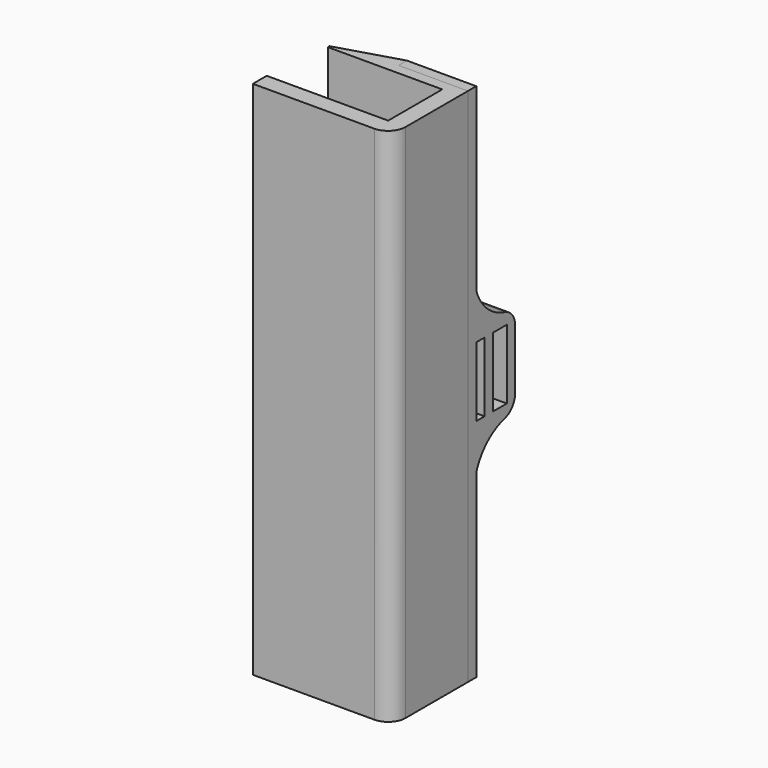
from build123d import *

# Parameters (mm, degrees)
F1_DEPTH = 150
F2_W     = 3
F2_H     = 20
F2_W_2   = 5
F3_DEPTH = 20
F4_R     = 1.75
F5_DEPTH = 6
F6_R     = 2.25
F7_DEPTH = 14
F8_R     = 5
F4_R_2   = 3
F9_DEPTH = 2
F10_R    = 5
F11_SIZE = 2


with BuildPart() as f1:
    # F0 (on Top) → F1 (new body)
    with BuildSketch(Plane.XY):
        Polygon((0, 0), (40, 0), (40, 27.5), (20, 27.5), (20, 30.5), (0, 24.5), (20, 24.5), (35, 24.5), (35, 5), (0, 5), align=None)
    extrude(amount=F1_DEPTH)


with BuildPart() as f3:
    # F2 (on face) → F3 (new body)
    with BuildSketch(Plane.YZ.offset(40)):
        Polygon((30.5, 150), (27.5, 150), (27.5, 0), (30.5, 0), (30.5, 52), (30.5, 62), (44.5, 62), (44.5, 88), (30.5, 88), (30.5, 98), align=None)
        with Locations((32, 75)):
            Rectangle(F2_W, F2_H, mode=Mode.SUBTRACT)
        with Locations((39, 75)):
            Rectangle(F2_W_2, F2_H, mode=Mode.SUBTRACT)
        with BuildLine():
            ThreePointArc((44.5, 88), (35.897675, 90.756745), (30.5, 98))
            Line((30.5, 98), (30.5, 88))
            Line((30.5, 88), (44.5, 88))
        make_face()
        with BuildLine():
            Line((30.5, 62), (30.5, 52))
            ThreePointArc((30.5, 52), (35.897675, 59.243255), (44.5, 62))
            Line((44.5, 62), (30.5, 62))
        make_face()
    extrude(amount=-F3_DEPTH)


with BuildPart() as f5_tool:
    # F4 (on face) → F5 (new body, through all)
    with BuildSketch(Plane.XZ.offset(-24.5)):
        with Locations((30, 140)):
            Circle(F4_R)
        with Locations((30, 105)):
            Circle(F4_R)
        with Locations((30, 45)):
            Circle(F4_R)
        with Locations((30, 10)):
            Circle(F4_R)
    extrude(amount=-F5_DEPTH)


with BuildPart() as f1_1:
    add(f1.part)

    # F5: cut by f5_tool
    add(f5_tool.part, mode=Mode.SUBTRACT)

    # F4 (on face) → F9 (cut)
    with BuildSketch(Plane.XZ.offset(-24.5)):
        with Locations((30, 140)):
            Circle(F4_R_2)
        with Locations((30, 140)):
            Circle(F4_R, mode=Mode.SUBTRACT)
        with Locations((30, 105)):
            Circle(F4_R_2)
        with Locations((30, 105)):
            Circle(F4_R, mode=Mode.SUBTRACT)
        with Locations((30, 45)):
            Circle(F4_R_2)
        with Locations((30, 45)):
            Circle(F4_R, mode=Mode.SUBTRACT)
        with Locations((30, 10)):
            Circle(F4_R_2)
        with Locations((30, 10)):
            Circle(F4_R, mode=Mode.SUBTRACT)
    extrude(amount=-F9_DEPTH, mode=Mode.SUBTRACT)

    # F10
    f10_edges = [f1_1.edges().sort_by_distance(p)[0] for p in [
        (40, 0, 75),
    ]]
    fillet(f10_edges, radius=F10_R)

    # F11
    f11_edges = [f1_1.edges().sort_by_distance(p)[0] for p in [
        (0, 24.5, 75),
    ]]
    chamfer(f11_edges, length=F11_SIZE)


with BuildPart() as f3_1:
    add(f3.part)

    # F5: cut by f5_tool
    add(f5_tool.part, mode=Mode.SUBTRACT)

    # F6 (on face) → F7 (cut, through all)
    with BuildSketch(Plane(origin=(0, 44.5, 0), x_dir=(-1, 0, 0), z_dir=(0, 1, 0))):
        with Locations((-30, 75)):
            Circle(F6_R)
    extrude(amount=-F7_DEPTH, mode=Mode.SUBTRACT)

    # F8
    f8_edges = [f3_1.edges().sort_by_distance(p)[0] for p in [
        (30, 30.5, 98),
        (30, 30.5, 52),
        (30, 44.5, 88),
        (30, 44.5, 62),
    ]]
    fillet(f8_edges, radius=F8_R)


solid = Compound([f1_1.part, f3_1.part])
